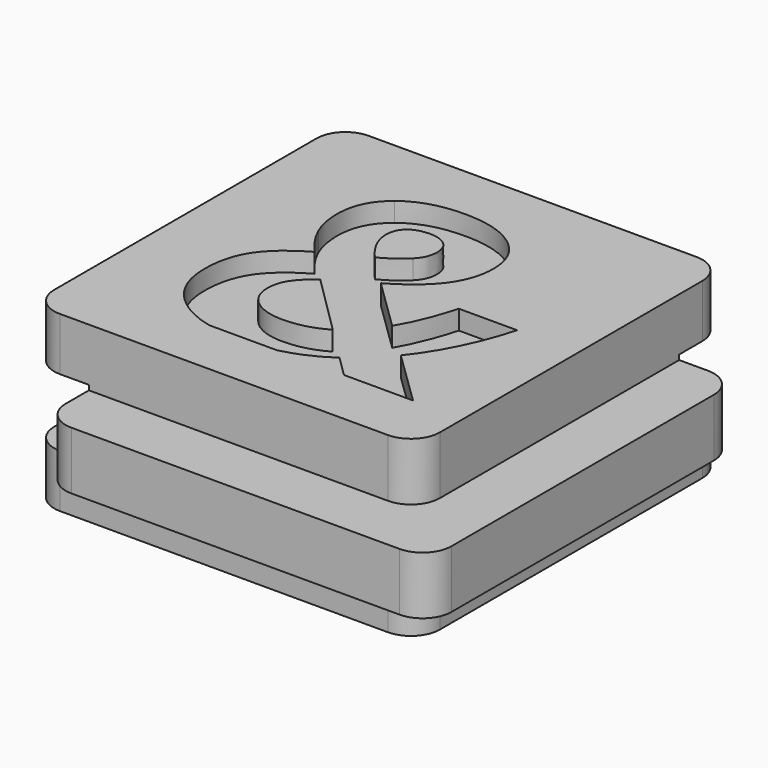
from build123d import *

# Parameters (mm, degrees)
F0_W     = 14
F0_H     = 3
F0_W_2   = 3
F1_DEPTH = 20
F2_DEPTH = 3
F3_W     = 3
F3_H     = 3
F4_DEPTH = 100
F5_W     = 3
F5_H     = 3.5
F6_DEPTH = 100
F7_R     = 1.5
F9_DEPTH = 1


with BuildPart() as f1:
    # F0 (on Front) → F1 (new body)
    with BuildSketch(Plane.XZ):
        Polygon((10, 1.5), (10, 4.5), (-10, 4.5), (-10, 1.5), (-7, 1.5), (7, 1.5), align=None)
        Rectangle(F0_W, F0_H)
        with Locations((11.5, 0)):
            Rectangle(F0_W_2, F0_H)
        with Locations((8.5, 0)):
            Rectangle(F0_W_2, F0_H)
        with Locations((-8.5, 0)):
            Rectangle(F0_W_2, F0_H)
        Polygon((10, -4.5), (10, -1.5), (7, -1.5), (-7, -1.5), (-10, -1.5), (-10, -4.5), align=None)
    extrude(amount=-F1_DEPTH)

    # F0 (on Front) → F2 (join)
    with BuildSketch(Plane.XZ):
        with Locations((-8.5, 0)):
            Rectangle(F0_W_2, F0_H)
        Rectangle(F0_W, F0_H)
        with Locations((8.5, 0)):
            Rectangle(F0_W_2, F0_H)
        with Locations((11.5, 0)):
            Rectangle(F0_W_2, F0_H)
    extrude(amount=F2_DEPTH)

    # F3 (on face) → F4 (cut)
    with BuildSketch(Plane.YZ.offset(13)):
        Polygon((23, -1.75), (23, 1.75), (17, 1.75), (17, 1.5), (20, 1.5), (20, -1.5), (17, -1.5), (17, -1.75), align=None)
        with Locations((18.5, 0)):
            Rectangle(F3_W, F3_H)
    extrude(amount=-F4_DEPTH, mode=Mode.SUBTRACT)

    # F5 (on face) → F6 (cut)
    with BuildSketch(Plane(origin=(0, 17, 0), x_dir=(-1, 0, 0), z_dir=(0, 1, 0))):
        with Locations((11.5, 0)):
            Rectangle(F5_W, F5_H)
        with Locations((8.5, 0)):
            Rectangle(F5_W, F5_H)
    extrude(amount=-F6_DEPTH, mode=Mode.SUBTRACT)

    # F7
    f7_edges = [f1.edges().sort_by_distance(p)[0] for p in [
        (-7, -3, 0),
        (13, -3, 0),
        (10, 0, 3),
        (10, 0, -3),
        (-10, 0, -3.125),
        (-10, 0, 3.125),
        (-7, 17, 0),
        (-10, 20, 3.125),
        (-10, 20, -3.125),
        (13, 17, 0),
        (10, 20, 3.125),
        (10, 20, -3.125),
    ]]
    fillet(f7_edges, radius=F7_R)

    # F8 (on face) → F9 (cut)
    with BuildSketch(Plane.XY.offset(4.5)):
        with BuildLine():
            Line((3.824145146, 3), (7.4031382015, 3))
            Line((7.4031382015, 3), (4.5441972293, 5.7829861111))
            add(Edge.make_bspline(
                [(5.902270146, 7.9416232639), (5.3037458404, 6.7217881944), (4.5441972293, 5.7829861111)],
                knots=[0, 0, 0, 1, 1, 1], degree=2))
            add(Edge.make_bspline(
                [(6.8441104237, 10.4435763889), (6.5007944515, 9.1614583333), (5.902270146, 7.9416232639)],
                knots=[0, 0, 0, 1, 1, 1], degree=2))
            Line((6.8441104237, 10.4435763889), (3.824145146, 10.4435763889))
            add(Edge.make_bspline(
                [(2.6574784793, 7.5846354167), (3.3289194515, 8.6966145833), (3.824145146, 10.4435763889)],
                knots=[0, 0, 0, 1, 1, 1], degree=2))
            Line((2.6574784793, 7.5846354167), (-0.0404381874, 10.2157118056))
            add(Edge.make_bspline(
                [(2.0771833404, 11.99609375), (1.4209333404, 11.0603298611), (-0.0404381874, 10.2157118056)],
                knots=[0, 0, 0, 1, 1, 1], degree=2))
            add(Edge.make_bspline(
                [(2.7334333404, 14.0620659722), (2.7334333404, 12.9318576389), (2.0771833404, 11.99609375)],
                knots=[0, 0, 0, 1, 1, 1], degree=2))
            add(Edge.make_bspline(
                [(1.6746225765, 16.2586805556), (2.7334333404, 15.4383680556), (2.7334333404, 14.0620659722)],
                knots=[0, 0, 0, 1, 1, 1], degree=2))
            add(Edge.make_bspline(
                [(-1.152417354, 17.0789930556), (0.6158118126, 17.0789930556), (1.6746225765, 16.2586805556)],
                knots=[0, 0, 0, 1, 1, 1], degree=2))
            add(Edge.make_bspline(
                [(-4.1085805485, 16.1963975694), (-3.0026777707, 17.0789930556), (-1.152417354, 17.0789930556)],
                knots=[0, 0, 0, 1, 1, 1], degree=2))
            add(Edge.make_bspline(
                [(-5.2144833263, 13.8706597222), (-5.2144833263, 15.3138020833), (-4.1085805485, 16.1963975694)],
                knots=[0, 0, 0, 1, 1, 1], degree=2))
            add(Edge.make_bspline(
                [(-4.8924347151, 12.2437065972), (-5.2144833263, 12.9895833333), (-5.2144833263, 13.8706597222)],
                knots=[0, 0, 0, 1, 1, 1], degree=2))
            add(Edge.make_bspline(
                [(-3.8564104096, 10.6805555556), (-4.570386104, 11.4978298611), (-4.8924347151, 12.2437065972)],
                knots=[0, 0, 0, 1, 1, 1], degree=2))
            add(Edge.make_bspline(
                [(-5.828198604, 8.9685329861), (-5.253979854, 9.8845486111), (-3.8564104096, 10.6805555556)],
                knots=[0, 0, 0, 1, 1, 1], degree=2))
            add(Edge.make_bspline(
                [(-6.402417354, 6.7491319444), (-6.402417354, 8.0525173611), (-5.828198604, 8.9685329861)],
                knots=[0, 0, 0, 1, 1, 1], degree=2))
            add(Edge.make_bspline(
                [(-5.0443444374, 3.8734809028), (-6.402417354, 4.9383680556), (-6.402417354, 6.7491319444)],
                knots=[0, 0, 0, 1, 1, 1], degree=2))
            add(Edge.make_bspline(
                [(-3.1611686995, 3), (-4.2620419441, 3.260064742), (-5.0443444374, 3.8734809028)],
                knots=[0.4239613473, 0.4239613473, 0.4239613473, 1, 1, 1], degree=2))
            Line((-3.1611686995, 3), (0.3406843845, 3))
            add(Edge.make_bspline(
                [(2.7334333404, 4.0724826389), (1.6254830234, 3.300443557), (0.3406843845, 3)],
                knots=[0, 0, 0, 0.6108441088, 0.6108441088, 0.6108441088], degree=2))
            Line((2.7334333404, 4.0724826389), (3.824145146, 3))
        make_face()
        with BuildLine():
            add(Edge.make_bspline(
                [(-3.3551083263, 7.0256076389), (-3.3551083263, 6.2083333333), (-2.7413930485, 5.7252604167)],
                knots=[0, 0, 0, 1, 1, 1], degree=2))
            add(Edge.make_bspline(
                [(-3.0360979096, 8.0798611111), (-3.3551083263, 7.6241319444), (-3.3551083263, 7.0256076389)],
                knots=[0, 0, 0, 1, 1, 1], degree=2))
            add(Edge.make_bspline(
                [(-2.1671742985, 8.9518229167), (-2.7170874929, 8.5355902778), (-3.0360979096, 8.0798611111)],
                knots=[0, 0, 0, 1, 1, 1], degree=2))
            Line((-2.1671742985, 8.9518229167), (0.9864715349, 5.8194444444))
            add(Edge.make_bspline(
                [(-1.1706465207, 5.2421875), (0.0264020904, 5.2421875), (0.9864715349, 5.8194444444)],
                knots=[0, 0, 0, 1, 1, 1], degree=2))
            add(Edge.make_bspline(
                [(-2.7413930485, 5.7252604167), (-2.1276777707, 5.2421875), (-1.1706465207, 5.2421875)],
                knots=[0, 0, 0, 1, 1, 1], degree=2))
        make_face(mode=Mode.SUBTRACT)
        with BuildLine():
            add(Edge.make_bspline(
                [(0.0537458404, 13.7582465278), (0.0537458404, 14.2595486111), (-0.2880510346, 14.5496961806)],
                knots=[0, 0, 0, 1, 1, 1], degree=2))
            add(Edge.make_bspline(
                [(-0.3822350624, 12.7267795139), (0.0537458404, 13.1688368056), (0.0537458404, 13.7582465278)],
                knots=[0, 0, 0, 1, 1, 1], degree=2))
            add(Edge.make_bspline(
                [(-1.6354902707, 11.8289930556), (-0.8182159651, 12.2847222222), (-0.3822350624, 12.7267795139)],
                knots=[0, 0, 0, 1, 1, 1], degree=2))
            add(Edge.make_bspline(
                [(-2.5378340207, 13.6731770833), (-2.5378340207, 12.8376736111), (-1.6354902707, 11.8289930556)],
                knots=[0, 0, 0, 1, 1, 1], degree=2))
            add(Edge.make_bspline(
                [(-2.1717315901, 14.5360243056), (-2.5378340207, 14.2322048611), (-2.5378340207, 13.6731770833)],
                knots=[0, 0, 0, 1, 1, 1], degree=2))
            add(Edge.make_bspline(
                [(-1.1706465207, 14.83984375), (-1.8056291596, 14.83984375), (-2.1717315901, 14.5360243056)],
                knots=[0, 0, 0, 1, 1, 1], degree=2))
            add(Edge.make_bspline(
                [(-0.2880510346, 14.5496961806), (-0.6298479096, 14.83984375), (-1.1706465207, 14.83984375)],
                knots=[0, 0, 0, 1, 1, 1], degree=2))
        make_face(mode=Mode.SUBTRACT)
    extrude(amount=-F9_DEPTH, mode=Mode.SUBTRACT)


solid = f1.part
